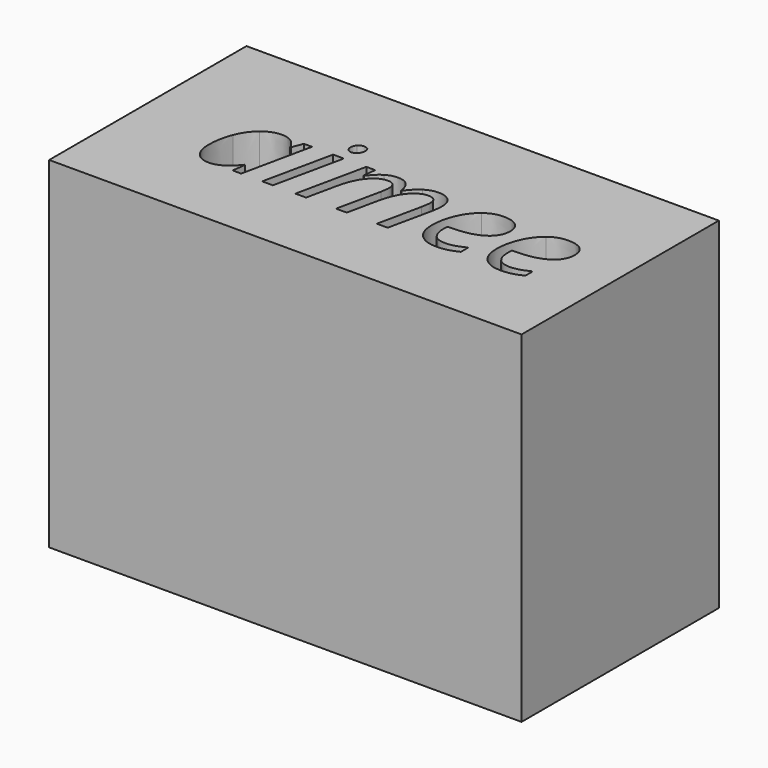
from build123d import *

# Parameters (mm, degrees)
F0_W     = 150.7802568376
F0_H     = 183.1382545643
F1_DEPTH = 288.798
F2_W     = 288.798
F2_H     = 150.7802568376
F3_DEPTH = 25.4


with BuildPart() as f1:
    # F0 (on Right) → F1 (new body)
    with BuildSketch(Plane.YZ):
        with Locations((-107.766257599, 94.338743249)):
            Rectangle(F0_W, F0_H)
    extrude(amount=F1_DEPTH)

    # F2 (on face) → F3 (join)
    with BuildSketch(Plane.XY.offset(185.9078705311)):
        with Locations((144.399, -107.766257599)):
            Rectangle(F2_W, F2_H)
        with BuildLine():
            add(Edge.make_bspline(
                [(60.0006148969, -97.2843690672), (64.878320813, -93.3372370071), (70.6990915092, -93.3372370071)],
                knots=[0, 0, 0, 1, 1, 1], degree=2))
            add(Edge.make_bspline(
                [(70.6990915092, -93.3372370071), (74.2839867663, -93.3372370071), (77.0944447205, -95.2733302644)],
                knots=[0, 0, 0, 1, 1, 1], degree=2))
            add(Edge.make_bspline(
                [(77.0944447205, -95.2733302644), (79.9049026747, -97.2094235217), (81.4662682048, -100.8317915516)],
                knots=[0, 0, 0, 1, 1, 1], degree=2))
            Line((81.4662682048, -100.8317915516), (81.9034505532, -100.8317915516))
            Line((81.9034505532, -100.8317915516), (84.5140537195, -94.1241652343))
            Line((84.5140537195, -94.1241652343), (89.4729506431, -94.1241652343))
            Line((89.4729506431, -94.1241652343), (80.3795577958, -136.905580759))
            Line((80.3795577958, -136.905580759), (75.1833333116, -136.905580759))
            Line((75.1833333116, -136.905580759), (76.2075890994, -128.7490072298))
            Line((76.2075890994, -128.7490072298), (75.8953159934, -128.7490072298))
            add(Edge.make_bspline(
                [(75.8953159934, -128.7490072298), (68.9003984185, -137.6925089862), (61.1685163135, -137.6925089862)],
                knots=[0, 0, 0, 1, 1, 1], degree=2))
            add(Edge.make_bspline(
                [(61.1685163135, -137.6925089862), (55.7474551929, -137.6925089862), (52.6621969055, -133.8265679337)],
                knots=[0, 0, 0, 1, 1, 1], degree=2))
            add(Edge.make_bspline(
                [(52.6621969055, -133.8265679337), (49.576938618, -129.9606268812), (49.576938618, -123.2405096396)],
                knots=[0, 0, 0, 1, 1, 1], degree=2))
            add(Edge.make_bspline(
                [(49.576938618, -123.2405096396), (49.576938618, -115.1214088831), (52.3499237994, -108.1764550052)],
                knots=[0, 0, 0, 1, 1, 1], degree=2))
            add(Edge.make_bspline(
                [(52.3499237994, -108.1764550052), (55.1229089809, -101.2315011273), (60.0006148969, -97.2843690672)],
                knots=[0, 0, 0, 1, 1, 1], degree=2))
        make_face(mode=Mode.SUBTRACT)
        Polygon((108.9213196861, -94.1241652343), (99.7779631418, -136.905580759), (93.2202279154, -136.905580759), (102.3635844597, -94.1241652343), align=None, mode=Mode.SUBTRACT)
        with BuildLine():
            Line((144.9451451966, -136.905580759), (138.3874099702, -136.905580759))
            Line((138.3874099702, -136.905580759), (144.1707078937, -109.8877116262))
            add(Edge.make_bspline(
                [(144.1707078937, -109.8877116262), (144.8701996511, -106.2278708236), (144.8701996511, -104.6290325208)],
                knots=[0, 0, 0, 1, 1, 1], degree=2))
            add(Edge.make_bspline(
                [(144.8701996511, -104.6290325208), (144.8701996511, -101.893520112), (143.6585799998, -100.3696273547)],
                knots=[0, 0, 0, 1, 1, 1], degree=2))
            add(Edge.make_bspline(
                [(143.6585799998, -100.3696273547), (142.4469603484, -98.8457345973), (139.5240840761, -98.8457345973)],
                knots=[0, 0, 0, 1, 1, 1], degree=2))
            add(Edge.make_bspline(
                [(139.5240840761, -98.8457345973), (136.2389710007, -98.8457345973), (133.1349763269, -101.1877828924)],
                knots=[0, 0, 0, 1, 1, 1], degree=2))
            add(Edge.make_bspline(
                [(133.1349763269, -101.1877828924), (130.0309816531, -103.5298311876), (127.6701969715, -107.8829182855)],
                knots=[0, 0, 0, 1, 1, 1], degree=2))
            add(Edge.make_bspline(
                [(127.6701969715, -107.8829182855), (125.30941229, -112.2360053834), (124.0228470932, -118.3690491857)],
                knots=[0, 0, 0, 1, 1, 1], degree=2))
            Line((124.0228470932, -118.3690491857), (120.0757150331, -136.905580759))
            Line((120.0757150331, -136.905580759), (113.5179798067, -136.905580759))
            Line((113.5179798067, -136.905580759), (122.661336351, -94.1241652343))
            Line((122.661336351, -94.1241652343), (128.0823974715, -94.1241652343))
            Line((128.0823974715, -94.1241652343), (127.2205236989, -102.0434112029))
            Line((127.2205236989, -102.0434112029), (127.6202332746, -102.0434112029))
            add(Edge.make_bspline(
                [(127.6202332746, -102.0434112029), (131.0052737438, -97.3967873854), (134.384068751, -95.3670121962)],
                knots=[0, 0, 0, 1, 1, 1], degree=2))
            add(Edge.make_bspline(
                [(134.384068751, -95.3670121962), (137.7628637581, -93.3372370071), (141.3602499395, -93.3372370071)],
                knots=[0, 0, 0, 1, 1, 1], degree=2))
            add(Edge.make_bspline(
                [(141.3602499395, -93.3372370071), (145.7695461965, -93.3372370071), (148.1490672644, -95.8791400901)],
                knots=[0, 0, 0, 1, 1, 1], degree=2))
            add(Edge.make_bspline(
                [(148.1490672644, -95.8791400901), (150.5285883322, -98.4210431731), (150.9532797564, -102.9427577483)],
                knots=[0, 0, 0, 1, 1, 1], degree=2))
            Line((150.9532797564, -102.9427577483), (151.2655528624, -102.9427577483))
            add(Edge.make_bspline(
                [(151.2655528624, -102.9427577483), (154.6256114832, -98.0712972944), (158.4103615282, -95.7042671507)],
                knots=[0, 0, 0, 1, 1, 1], degree=2))
            add(Edge.make_bspline(
                [(158.4103615282, -95.7042671507), (162.1951115732, -93.3372370071), (166.0672980878, -93.3372370071)],
                knots=[0, 0, 0, 1, 1, 1], degree=2))
            add(Edge.make_bspline(
                [(166.0672980878, -93.3372370071), (171.0261950114, -93.3372370071), (173.7367255717, -95.9915584083)],
                knots=[0, 0, 0, 1, 1, 1], degree=2))
            add(Edge.make_bspline(
                [(173.7367255717, -95.9915584083), (176.4472561319, -98.6458798094), (176.4472561319, -103.7296859754)],
                knots=[0, 0, 0, 1, 1, 1], degree=2))
            add(Edge.make_bspline(
                [(176.4472561319, -103.7296859754), (176.4472561319, -106.3777619145), (175.5853823593, -110.6746398533)],
                knots=[0, 0, 0, 1, 1, 1], degree=2))
            Line((175.5853823593, -110.6746398533), (169.9644664509, -136.905580759))
            Line((169.9644664509, -136.905580759), (163.3317856791, -136.905580759))
            Line((163.3317856791, -136.905580759), (169.1025926783, -109.8877116262))
            add(Edge.make_bspline(
                [(169.1025926783, -109.8877116262), (169.8895209055, -105.8281612479), (169.8895209055, -104.1918501724)],
                knots=[0, 0, 0, 1, 1, 1], degree=2))
            add(Edge.make_bspline(
                [(169.8895209055, -104.1918501724), (169.8895209055, -101.7686108696), (168.5405010875, -100.3071727335)],
                knots=[0, 0, 0, 1, 1, 1], degree=2))
            add(Edge.make_bspline(
                [(168.5405010875, -100.3071727335), (167.1914812695, -98.8457345973), (164.3060777699, -98.8457345973)],
                knots=[0, 0, 0, 1, 1, 1], degree=2))
            add(Edge.make_bspline(
                [(164.3060777699, -98.8457345973), (161.1458739369, -98.8457345973), (158.0606156494, -101.112837347)],
                knots=[0, 0, 0, 1, 1, 1], degree=2))
            add(Edge.make_bspline(
                [(158.0606156494, -101.112837347), (154.975357362, -103.3799400967), (152.6520454532, -107.5331724068)],
                knots=[0, 0, 0, 1, 1, 1], degree=2))
            add(Edge.make_bspline(
                [(152.6520454532, -107.5331724068), (150.3287335444, -111.6864047168), (149.117113893, -117.3822661707)],
                knots=[0, 0, 0, 1, 1, 1], degree=2))
            Line((149.117113893, -117.3822661707), (144.9451451966, -136.905580759))
        make_face(mode=Mode.SUBTRACT)
        with BuildLine():
            add(Edge.make_bspline(
                [(206.3380378402, -137.005508153), (203.527579886, -137.6925089862), (200.1425394168, -137.6925089862)],
                knots=[0, 0, 0, 1, 1, 1], degree=2))
            add(Edge.make_bspline(
                [(200.1425394168, -137.6925089862), (192.9602579783, -137.6925089862), (188.8569893652, -133.4331038201)],
                knots=[0, 0, 0, 1, 1, 1], degree=2))
            add(Edge.make_bspline(
                [(188.8569893652, -133.4331038201), (184.7537207521, -129.173698654), (184.7537207521, -121.6416713368)],
                knots=[0, 0, 0, 1, 1, 1], degree=2))
            add(Edge.make_bspline(
                [(184.7537207521, -121.6416713368), (184.7537207521, -114.3094988074), (187.6641061002, -107.5706451795)],
                knots=[0, 0, 0, 1, 1, 1], degree=2))
            add(Edge.make_bspline(
                [(187.6641061002, -107.5706451795), (190.5744914483, -100.8317915516), (195.3772518189, -97.0845142793)],
                knots=[0, 0, 0, 1, 1, 1], degree=2))
            add(Edge.make_bspline(
                [(195.3772518189, -97.0845142793), (200.1800121895, -93.3372370071), (205.9508191887, -93.3372370071)],
                knots=[0, 0, 0, 1, 1, 1], degree=2))
            add(Edge.make_bspline(
                [(205.9508191887, -93.3372370071), (211.9214809758, -93.3372370071), (214.9317937179, -95.9353492492)],
                knots=[0, 0, 0, 1, 1, 1], degree=2))
            add(Edge.make_bspline(
                [(214.9317937179, -95.9353492492), (217.9421064599, -98.5334614913), (217.9421064599, -103.1800853088)],
                knots=[0, 0, 0, 1, 1, 1], degree=2))
            add(Edge.make_bspline(
                [(217.9421064599, -103.1800853088), (217.9421064599, -110.1999847322), (211.4593167789, -114.2033259514)],
                knots=[0, 0, 0, 1, 1, 1], degree=2))
            add(Edge.make_bspline(
                [(211.4593167789, -114.2033259514), (204.9765270979, -118.2066671705), (192.9102942813, -118.2066671705)],
                knots=[0, 0, 0, 1, 1, 1], degree=2))
            Line((192.9102942813, -118.2066671705), (191.6237290845, -118.2066671705))
            Line((191.6237290845, -118.2066671705), (191.4738379936, -121.3293982308))
            add(Edge.make_bspline(
                [(191.4738379936, -121.3293982308), (191.4738379936, -126.4381862452), (193.8720954479, -129.3110988206)],
                knots=[0, 0, 0, 1, 1, 1], degree=2))
            add(Edge.make_bspline(
                [(193.8720954479, -129.3110988206), (196.2703529021, -132.184011396), (201.3041953711, -132.184011396)],
                knots=[0, 0, 0, 1, 1, 1], degree=2))
            add(Edge.make_bspline(
                [(201.3041953711, -132.184011396), (203.7649074466, -132.184011396), (206.3630196887, -131.4782741764)],
                knots=[0, 0, 0, 1, 1, 1], degree=2))
            add(Edge.make_bspline(
                [(206.3630196887, -131.4782741764), (208.9611319308, -130.7725369568), (212.8208275212, -128.8988983207)],
                knots=[0, 0, 0, 1, 1, 1], degree=2))
            Line((212.8208275212, -128.8988983207), (212.8208275212, -134.6072506987))
            add(Edge.make_bspline(
                [(212.8208275212, -134.6072506987), (209.1484957944, -136.3185073197), (206.3380378402, -137.005508153)],
                knots=[0, 0, 0, 1, 1, 1], degree=2))
        make_face(mode=Mode.SUBTRACT)
        with BuildLine():
            add(Edge.make_bspline(
                [(245.7593947442, -137.005508153), (242.94893679, -137.6925089862), (239.5638963208, -137.6925089862)],
                knots=[0, 0, 0, 1, 1, 1], degree=2))
            add(Edge.make_bspline(
                [(239.5638963208, -137.6925089862), (232.3816148823, -137.6925089862), (228.2783462692, -133.4331038201)],
                knots=[0, 0, 0, 1, 1, 1], degree=2))
            add(Edge.make_bspline(
                [(228.2783462692, -133.4331038201), (224.1750776561, -129.173698654), (224.1750776561, -121.6416713368)],
                knots=[0, 0, 0, 1, 1, 1], degree=2))
            add(Edge.make_bspline(
                [(224.1750776561, -121.6416713368), (224.1750776561, -114.3094988074), (227.0854630042, -107.5706451795)],
                knots=[0, 0, 0, 1, 1, 1], degree=2))
            add(Edge.make_bspline(
                [(227.0854630042, -107.5706451795), (229.9958483523, -100.8317915516), (234.7986087229, -97.0845142793)],
                knots=[0, 0, 0, 1, 1, 1], degree=2))
            add(Edge.make_bspline(
                [(234.7986087229, -97.0845142793), (239.6013690935, -93.3372370071), (245.3721760927, -93.3372370071)],
                knots=[0, 0, 0, 1, 1, 1], degree=2))
            add(Edge.make_bspline(
                [(245.3721760927, -93.3372370071), (251.3428378798, -93.3372370071), (254.3531506219, -95.9353492492)],
                knots=[0, 0, 0, 1, 1, 1], degree=2))
            add(Edge.make_bspline(
                [(254.3531506219, -95.9353492492), (257.3634633639, -98.5334614913), (257.3634633639, -103.1800853088)],
                knots=[0, 0, 0, 1, 1, 1], degree=2))
            add(Edge.make_bspline(
                [(257.3634633639, -103.1800853088), (257.3634633639, -110.1999847322), (250.8806736829, -114.2033259514)],
                knots=[0, 0, 0, 1, 1, 1], degree=2))
            add(Edge.make_bspline(
                [(250.8806736829, -114.2033259514), (244.397884002, -118.2066671705), (232.3316511853, -118.2066671705)],
                knots=[0, 0, 0, 1, 1, 1], degree=2))
            Line((232.3316511853, -118.2066671705), (231.0450859885, -118.2066671705))
            Line((231.0450859885, -118.2066671705), (230.8951948976, -121.3293982308))
            add(Edge.make_bspline(
                [(230.8951948976, -121.3293982308), (230.8951948976, -126.4381862452), (233.2934523519, -129.3110988206)],
                knots=[0, 0, 0, 1, 1, 1], degree=2))
            add(Edge.make_bspline(
                [(233.2934523519, -129.3110988206), (235.6917098061, -132.184011396), (240.7255522752, -132.184011396)],
                knots=[0, 0, 0, 1, 1, 1], degree=2))
            add(Edge.make_bspline(
                [(240.7255522752, -132.184011396), (243.1862643506, -132.184011396), (245.7843765927, -131.4782741764)],
                knots=[0, 0, 0, 1, 1, 1], degree=2))
            add(Edge.make_bspline(
                [(245.7843765927, -131.4782741764), (248.3824888348, -130.7725369568), (252.2421844252, -128.8988983207)],
                knots=[0, 0, 0, 1, 1, 1], degree=2))
            Line((252.2421844252, -128.8988983207), (252.2421844252, -134.6072506987))
            add(Edge.make_bspline(
                [(252.2421844252, -134.6072506987), (248.5698526984, -136.3185073197), (245.7593947442, -137.005508153)],
                knots=[0, 0, 0, 1, 1, 1], degree=2))
        make_face(mode=Mode.SUBTRACT)
        with BuildLine():
            add(Edge.make_bspline(
                [(105.2115151866, -85.9113825459), (104.1997503231, -84.9558268415), (104.1997503231, -83.1946065235)],
                knots=[0, 0, 0, 1, 1, 1], degree=2))
            add(Edge.make_bspline(
                [(104.1997503231, -83.1946065235), (104.1997503231, -81.0086947814), (105.4488427471, -79.6222021907)],
                knots=[0, 0, 0, 1, 1, 1], degree=2))
            add(Edge.make_bspline(
                [(105.4488427471, -79.6222021907), (106.6979351712, -78.2357095999), (108.6839921255, -78.2357095999)],
                knots=[0, 0, 0, 1, 1, 1], degree=2))
            add(Edge.make_bspline(
                [(108.6839921255, -78.2357095999), (112.1189962917, -78.2357095999), (112.1189962917, -81.7456593116)],
                knots=[0, 0, 0, 1, 1, 1], degree=2))
            add(Edge.make_bspline(
                [(112.1189962917, -81.7456593116), (112.1189962917, -83.894098281), (110.8136947086, -85.3805182657)],
                knots=[0, 0, 0, 1, 1, 1], degree=2))
            add(Edge.make_bspline(
                [(110.8136947086, -85.3805182657), (109.5083931254, -86.8669382503), (107.7846455802, -86.8669382503)],
                knots=[0, 0, 0, 1, 1, 1], degree=2))
            add(Edge.make_bspline(
                [(107.7846455802, -86.8669382503), (106.2232800501, -86.8669382503), (105.2115151866, -85.9113825459)],
                knots=[0, 0, 0, 1, 1, 1], degree=2))
        make_face(mode=Mode.SUBTRACT)
    extrude(amount=F3_DEPTH)


solid = f1.part
